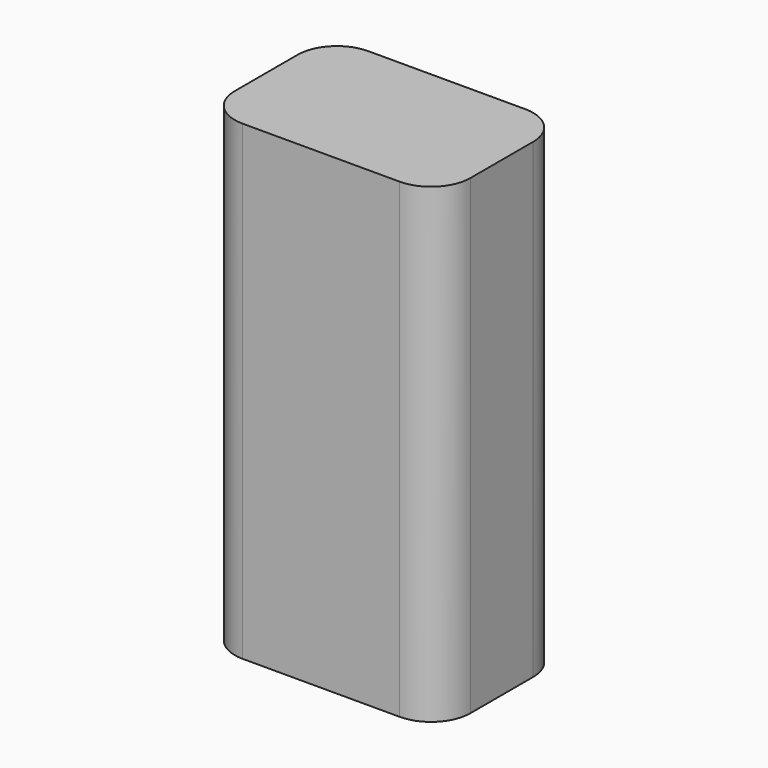
from build123d import *

# Parameters (mm, degrees)
F0_W     = 30
F0_H     = 20
F1_DEPTH = 60
F2_R     = 5


with BuildPart() as f1:
    # F0 (on Top) → F1 (new body)
    with BuildSketch(Plane.XY):
        with Locations((1.088707, 2.584395)):
            Rectangle(F0_W, F0_H)
        with Locations((1.088707, 2.584395)):
            Rectangle(F0_W, F0_H)
    extrude(amount=F1_DEPTH)

    # F2
    f2_edges = [f1.edges().sort_by_distance(p)[0] for p in [
        (-13.911293, -7.415605, 30),
        (-13.911293, 12.584395, 30),
        (16.088707, -7.415605, 30),
        (16.088707, 12.584395, 30),
    ]]
    fillet(f2_edges, radius=F2_R)


solid = f1.part
